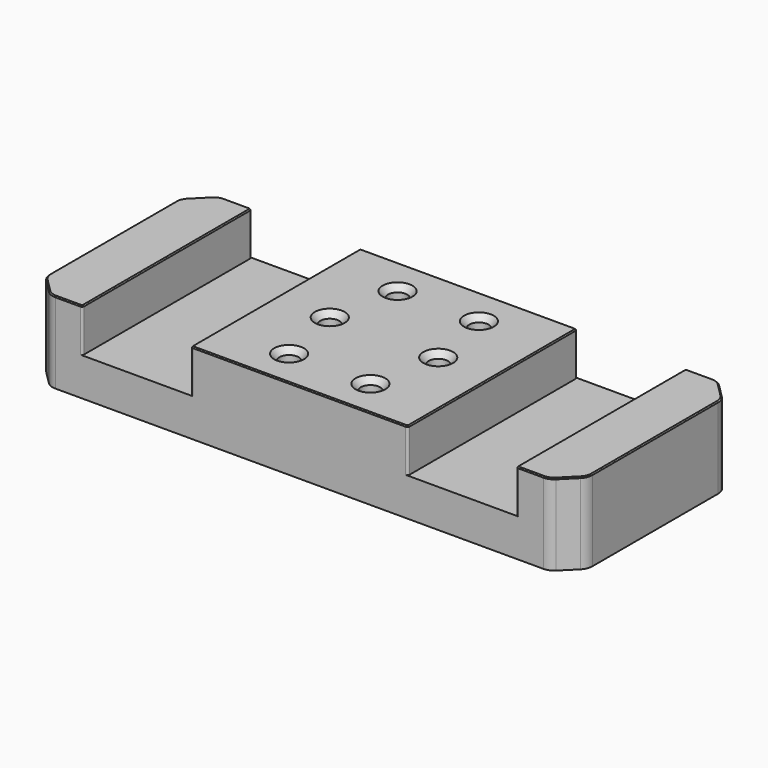
from build123d import *

# Parameters (mm, degrees)
PAD_DEPTH        = 19.05
HOLE_D           = 4.5
HOLE_DEPTH       = 14.986
HOLE_CSINK_D     = 6.985
HOLE_CSINK_ANGLE = 82
HOLE_TIPS_R      = 2.25
SKETCH002_W      = 25.4
SKETCH002_H      = 49.53
POCKET_DEPTH     = 10.16
FILLET_R         = 0.508
CHAMFER_SIZE     = 0.254


with BuildPart() as part:
    # Sketch → Pad (new body)
    with BuildSketch(Plane.XY):
        with BuildLine():
            Line((-62.570064, -20.660064), (-59.395064, -23.835064))
            ThreePointArc((-59.395064, -23.835064), (-58.36502, -24.523318), (-57.15, -24.765))
            Line((-57.15, -24.765), (57.15, -24.765))
            ThreePointArc((57.15, -24.765), (58.36502, -24.523318), (59.395064, -23.835064))
            Line((59.395064, -23.835064), (62.570064, -20.660064))
            ThreePointArc((62.570064, -20.660064), (63.258318, -19.63002), (63.5, -18.415))
            Line((63.5, -18.415), (63.5, 18.415))
            ThreePointArc((63.5, 18.415), (63.258318, 19.63002), (62.570064, 20.660064))
            Line((62.570064, 20.660064), (59.395064, 23.835064))
            ThreePointArc((59.395064, 23.835064), (58.36502, 24.523318), (57.15, 24.765))
            Line((57.15, 24.765), (-57.15, 24.765))
            ThreePointArc((-57.15, 24.765), (-58.36502, 24.523318), (-59.395064, 23.835064))
            Line((-59.395064, 23.835064), (-62.570064, 20.660064))
            ThreePointArc((-62.570064, 20.660064), (-63.258318, 19.63002), (-63.5, 18.415))
            Line((-63.5, 18.415), (-63.5, -18.415))
            ThreePointArc((-63.5, -18.415), (-63.258318, -19.63002), (-62.570064, -20.660064))
        make_face()
    extrude(amount=PAD_DEPTH)

    # Hole
    with Locations(Plane.XY.offset(19.05)):
        with Locations((-9.525, 15.875), (9.525, 15.875), (12.7, 0), (-12.7, 0), (-9.525, -15.875), (9.525, -15.875)):
            CounterSinkHole(HOLE_D / 2, HOLE_CSINK_D / 2, depth=HOLE_DEPTH, counter_sink_angle=HOLE_CSINK_ANGLE)

    # Hole tips → Hole tip 1 section 0
    with BuildSketch(Plane.XY.offset(4.064), mode=Mode.PRIVATE) as hole_tip_1_s0:
        with Locations((-9.525, 15.875)):
            Circle(HOLE_TIPS_R)
    loft([hole_tip_1_s0.sketch, Vertex(-9.525, 15.875, 2.712064)], mode=Mode.SUBTRACT)

    # Hole tips → Hole tip 2 section 0
    with BuildSketch(Plane.XY.offset(4.064), mode=Mode.PRIVATE) as hole_tip_2_s0:
        with Locations((9.525, 15.875)):
            Circle(HOLE_TIPS_R)
    loft([hole_tip_2_s0.sketch, Vertex(9.525, 15.875, 2.712064)], mode=Mode.SUBTRACT)

    # Hole tips → Hole tip 3 section 0
    with BuildSketch(Plane.XY.offset(4.064), mode=Mode.PRIVATE) as hole_tip_3_s0:
        with Locations((12.7, 0)):
            Circle(HOLE_TIPS_R)
    loft([hole_tip_3_s0.sketch, Vertex(12.7, 0, 2.712064)], mode=Mode.SUBTRACT)

    # Hole tips → Hole tip 4 section 0
    with BuildSketch(Plane.XY.offset(4.064), mode=Mode.PRIVATE) as hole_tip_4_s0:
        with Locations((-12.7, 0)):
            Circle(HOLE_TIPS_R)
    loft([hole_tip_4_s0.sketch, Vertex(-12.7, 0, 2.712064)], mode=Mode.SUBTRACT)

    # Hole tips → Hole tip 5 section 0
    with BuildSketch(Plane.XY.offset(4.064), mode=Mode.PRIVATE) as hole_tip_5_s0:
        with Locations((-9.525, -15.875)):
            Circle(HOLE_TIPS_R)
    loft([hole_tip_5_s0.sketch, Vertex(-9.525, -15.875, 2.712064)], mode=Mode.SUBTRACT)

    # Hole tips → Hole tip 6 section 0
    with BuildSketch(Plane.XY.offset(4.064), mode=Mode.PRIVATE) as hole_tip_6_s0:
        with Locations((9.525, -15.875)):
            Circle(HOLE_TIPS_R)
    loft([hole_tip_6_s0.sketch, Vertex(9.525, -15.875, 2.712064)], mode=Mode.SUBTRACT)

    # Sketch002 (on Face5 of Hole) → Pocket (cut)
    with BuildSketch(Plane.XY.offset(19.05)):
        with Locations((-38.1, 0)):
            Rectangle(SKETCH002_W, SKETCH002_H)
        with Locations((38.1, 0)):
            Rectangle(SKETCH002_W, SKETCH002_H)
    extrude(amount=-POCKET_DEPTH, mode=Mode.SUBTRACT)

    # Fillet
    fillet_edges = [part.edges().sort_by_distance(p)[0] for p in [
        (-50.8, -24.765, 13.97),
        (-50.8, 24.765, 13.97),
        (-25.4, -24.765, 13.97),
        (25.4, -24.765, 13.97),
        (50.8, -24.765, 13.97),
        (50.8, 24.765, 13.97),
        (25.4, 24.765, 13.97),
        (-25.4, 24.765, 13.97),
    ]]
    fillet(fillet_edges, radius=FILLET_R)

    # Chamfer
    chamfer_edges = [part.edges().sort_by_distance(p)[0] for p in [
        (54.229, 24.765, 19.05),
        (0, 24.765, 19.05),
        (-54.229, 24.765, 19.05),
    ]]
    chamfer(chamfer_edges, length=CHAMFER_SIZE)


solid = part.part
